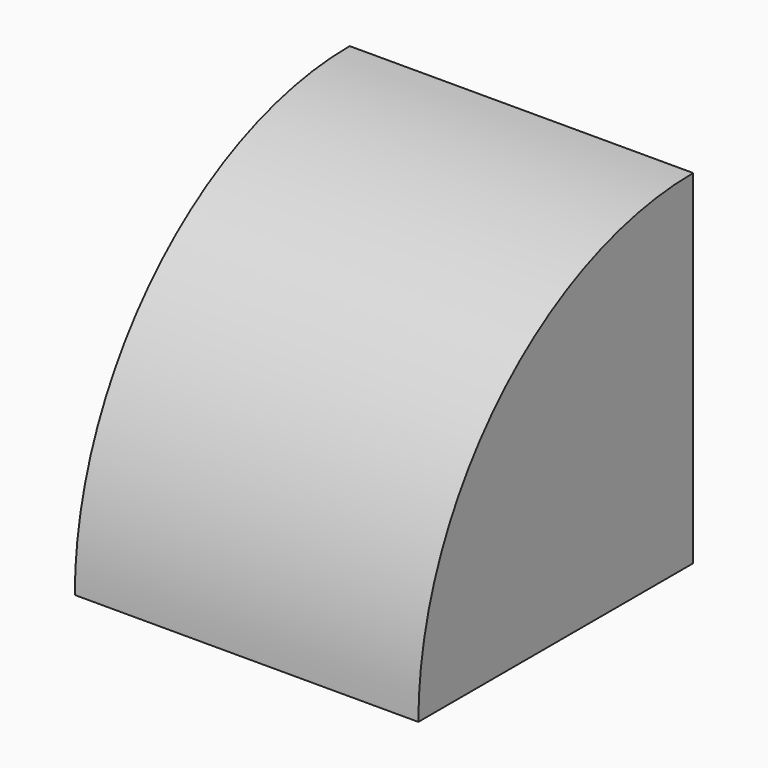
from build123d import *

# Parameters (mm, degrees)
SKETCH004_W      = 0.5
SKETCH004_H      = 0.5
EXTRUDE005_DEPTH = 0.5
SKETCH003_R      = 0.5
EXTRUDE006_DEPTH = 0.5


with BuildPart() as extrude005:
    # Sketch004 → Extrude005 (new body)
    with BuildSketch(Plane.YZ.offset(-1.5)):
        with Locations((-1.25, 0)):
            Rectangle(SKETCH004_W, SKETCH004_H)
    extrude(amount=EXTRUDE005_DEPTH)


with BuildPart() as common002:
    # Sketch003 → Extrude006 (new body)
    with BuildSketch(Plane.YZ.offset(-1.5)):
        with Locations((-1, -0.25)):
            Circle(SKETCH003_R)
    extrude(amount=EXTRUDE006_DEPTH)

    # Common002: intersect Extrude005
    add(extrude005.part, mode=Mode.INTERSECT)


with BuildPart() as common002_1:
    # Common002 placement: moved
    add(common002.part.moved(Location((2.5, 0, 0))))


solid = common002_1.part
